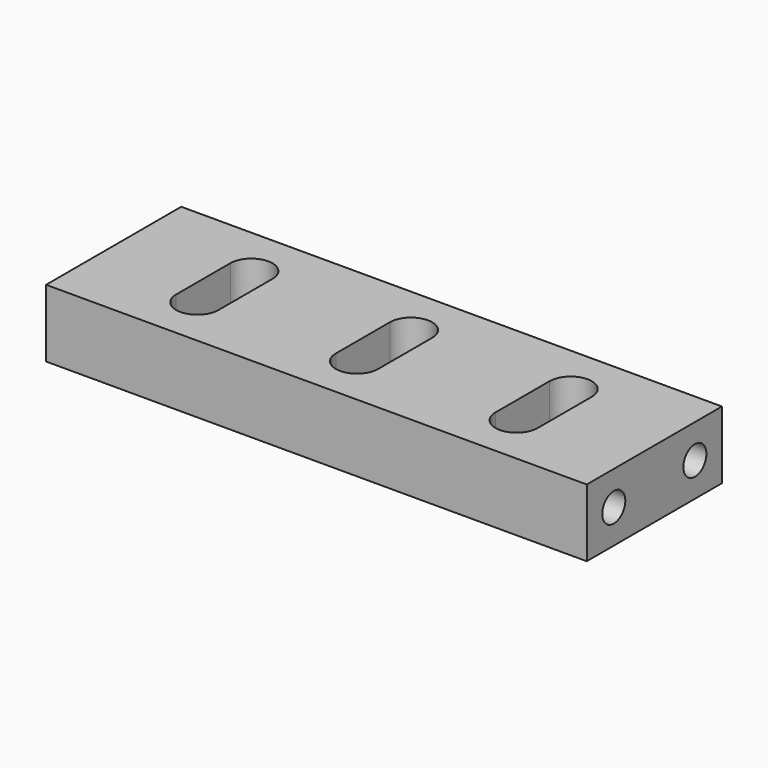
from build123d import *

# Parameters (mm, degrees)
F0_W     = 101.6
F0_H     = 31.75
F1_DEPTH = 12.7
F3_DEPTH = 25.4
F4_R     = 2.7051
F5_DEPTH = 12.7
F6_R     = 2.7051
F7_DEPTH = 12.7


with BuildPart() as f1:
    # F0 (on Top) → F1 (new body)
    with BuildSketch(Plane.XY):
        with Locations((50.8, 15.875)):
            Rectangle(F0_W, F0_H)
    extrude(amount=F1_DEPTH)

    # F2 (on face) → F3 (cut)
    with BuildSketch(Plane.XY.offset(12.7)):
        with BuildLine():
            ThreePointArc((24.76875, 22.225), (20.8, 26.19375), (16.83125, 22.225))
            Line((16.83125, 22.225), (16.83125, 9.525))
            ThreePointArc((16.83125, 9.525), (20.8, 5.55625), (24.76875, 9.525))
            Line((24.76875, 9.525), (24.76875, 22.225))
        make_face()
        with BuildLine():
            ThreePointArc((84.76875, 22.225), (80.8, 26.19375), (76.83125, 22.225))
            Line((76.83125, 22.225), (76.83125, 9.525))
            ThreePointArc((76.83125, 9.525), (80.8, 5.55625), (84.76875, 9.525))
            Line((84.76875, 9.525), (84.76875, 22.225))
        make_face()
        with BuildLine():
            ThreePointArc((54.76875, 22.225), (50.8, 26.19375), (46.83125, 22.225))
            Line((46.83125, 22.225), (46.83125, 9.525))
            ThreePointArc((46.83125, 9.525), (50.8, 5.55625), (54.76875, 9.525))
            Line((54.76875, 9.525), (54.76875, 22.225))
        make_face()
    extrude(amount=-F3_DEPTH, mode=Mode.SUBTRACT)

    # F4 (on face) → F5 (cut)
    with BuildSketch(Plane.YZ.offset(101.6)):
        with Locations((6.35, 6.35)):
            Circle(F4_R)
        with Locations((25.4, 6.35)):
            Circle(F4_R)
    extrude(amount=-F5_DEPTH, mode=Mode.SUBTRACT)

    # F6 (on face) → F7 (cut)
    with BuildSketch(Plane(origin=(0, 0, 0), x_dir=(0, -1, 0), z_dir=(-1, 0, 0))):
        with Locations((-25.4, 6.35)):
            Circle(F6_R)
        with Locations((-6.35, 6.35)):
            Circle(F6_R)
    extrude(amount=-F7_DEPTH, mode=Mode.SUBTRACT)


solid = f1.part
